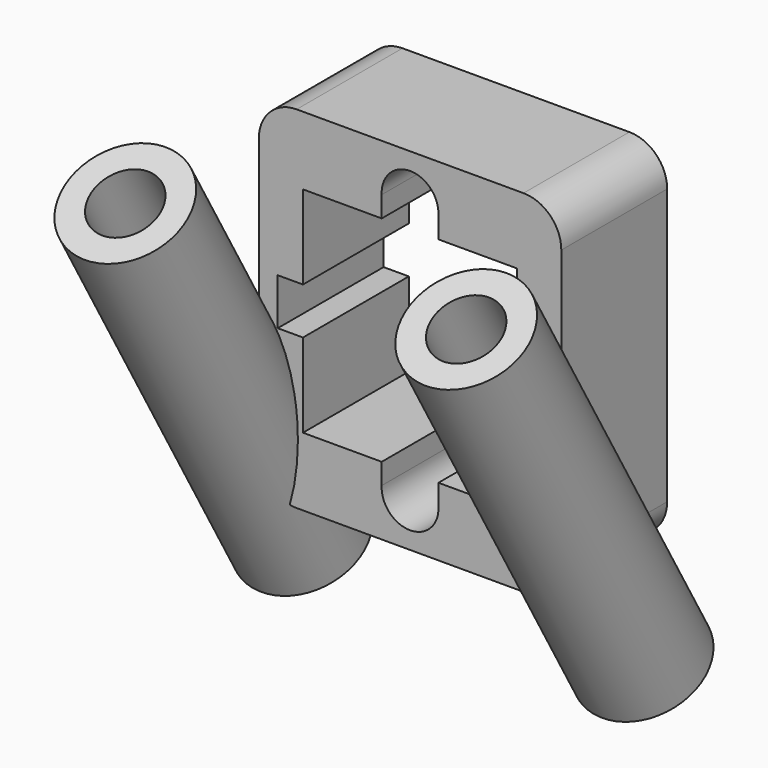
from build123d import *

# Parameters (mm, degrees)
F1_DEPTH      = 10.5
F4_R          = 4.625
F4_R_2        = 2.625
F5_DEPTH      = 20
F5_DEPTH_BACK = 15
F6_DEPTH      = 19.1738930562
F6_DEPTH_BACK = 25


with BuildPart() as f1:
    # F0 (on Front) → F1 (new body)
    with BuildSketch(Plane.XZ):
        with BuildLine():
            ThreePointArc((12, 10.924703002), (11.1213203436, 13.0460233455), (9, 13.924703002))
            Line((9, 13.924703002), (-9, 13.924703002))
            ThreePointArc((-9, 13.924703002), (-11.1213203436, 13.0460233455), (-12, 10.924703002))
            Line((-12, 10.924703002), (-12, -10.924703002))
            ThreePointArc((-12, -10.924703002), (-11.1213203436, -13.0460233455), (-9, -13.924703002))
            Line((-9, -13.924703002), (9, -13.924703002))
            ThreePointArc((9, -13.924703002), (11.1213203436, -13.0460233455), (12, -10.924703002))
            Line((12, -10.924703002), (12, 10.924703002))
        make_face()
        with BuildLine():
            Line((8.5, 8.5), (8.5, -8.5))
            Line((8.5, -8.5), (2.25, -8.5))
            Line((2.25, -8.5), (2.25, -10.1598765432))
            ThreePointArc((2.25, -10.1598765432), (0, -12.55), (-2.25, -10.1598765432))
            Line((-2.25, -10.1598765432), (-2.25, -8.5))
            Line((-2.25, -8.5), (-8.5, -8.5))
            Line((-8.5, -8.5), (-8.5, -1.85))
            Line((-8.5, -1.85), (-10.5, -1.85))
            Line((-10.5, -1.85), (-10.5, 1.85))
            Line((-10.5, 1.85), (-8.5, 1.85))
            Line((-8.5, 1.85), (-8.5, 8.5))
            Line((-8.5, 8.5), (-2.25, 8.5))
            Line((-2.25, 8.5), (-2.25, 10.1598765432))
            ThreePointArc((-2.25, 10.1598765432), (0, 12.55), (2.25, 10.1598765432))
            Line((2.25, 10.1598765432), (2.25, 8.5))
            Line((2.25, 8.5), (8.5, 8.5))
        make_face(mode=Mode.SUBTRACT)
    extrude(amount=F1_DEPTH)

    # F4 (on face) → F5 (join, two sides)
    with BuildSketch(Plane(origin=(0, 0, 0), x_dir=(1, 0, 0), z_dir=(0, 0.5, -0.8660254038))) as f5_sk:
        with Locations((13.525, 13.6721374395)):
            Circle(F4_R)
        with Locations((13.525, 13.6721374395)):
            Circle(F4_R_2, mode=Mode.SUBTRACT)
        with Locations((-13.525, 13.6721374395)):
            Circle(F4_R)
        with Locations((-13.525, 13.6721374395)):
            Circle(F4_R_2, mode=Mode.SUBTRACT)
    extrude(amount=-F5_DEPTH)
    extrude(f5_sk.sketch, amount=F5_DEPTH_BACK)

    # F4 (on face) → F6 (cut, two sides)
    with BuildSketch(Plane(origin=(0, 0, 0), x_dir=(1, 0, 0), z_dir=(0, 0.5, -0.8660254038))) as f6_sk:
        with Locations((-13.525, 13.6721374395)):
            Circle(F4_R_2)
        with Locations((13.525, 13.6721374395)):
            Circle(F4_R_2)
    extrude(amount=F6_DEPTH, mode=Mode.SUBTRACT)
    extrude(f6_sk.sketch, amount=-F6_DEPTH_BACK, mode=Mode.SUBTRACT)


solid = f1.part
